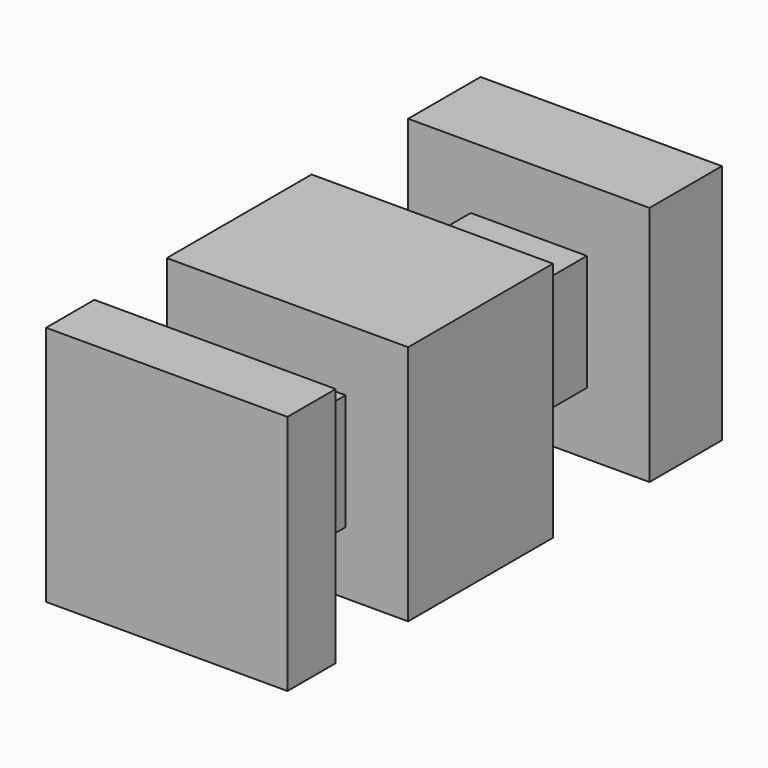
from build123d import *

# Parameters (mm, degrees)
F0_W      = 8
F0_H      = 6
F1_DEPTH  = 8
F2_W      = 3.85
F2_H      = 3.85
F3_DEPTH  = 3
F4_W      = 8
F4_H      = 8
F4_W_2    = 3.85
F4_H_2    = 3.85
F5_DEPTH  = 2
F7_W      = 3.85
F7_H      = 3.85
F8_DEPTH  = 3
F9_W      = 8
F9_H      = 8
F9_W_2    = 3.85
F9_H_2    = 3.85
F10_DEPTH = 2.35
F11_DEPTH = 0.35
F12_DEPTH = 1
F13_DEPTH = 0.65
F14_DEPTH = 1


with BuildPart() as f1:
    # F0 (on Top) → F1 (new body)
    with BuildSketch(Plane.XY):
        Rectangle(F0_W, F0_H)
    extrude(amount=F1_DEPTH)

    # F2 (on face) → F3 (join)
    with BuildSketch(Plane.XZ.offset(3)):
        with Locations((0, 4)):
            Rectangle(F2_W, F2_H)
    extrude(amount=F3_DEPTH)

    # F4 (on face) → F5 (join)
    with BuildSketch(Plane.XZ.offset(6)):
        with Locations((0, 4)):
            Rectangle(F4_W, F4_H)
        with Locations((0, 4)):
            Rectangle(F4_W_2, F4_H_2, mode=Mode.SUBTRACT)
        with Locations((0, 4)):
            Rectangle(F4_W_2, F4_H_2)
    extrude(amount=F5_DEPTH)

    # F7 (on face) → F8 (join)
    with BuildSketch(Plane(origin=(0, 3, 0), x_dir=(-1, 0, 0), z_dir=(0, 1, 0))):
        with Locations((0, 4)):
            Rectangle(F7_W, F7_H)
    extrude(amount=F8_DEPTH)

    # F9 (on face) → F10 (join)
    with BuildSketch(Plane(origin=(0, 6, 0), x_dir=(-1, 0, 0), z_dir=(0, 1, 0))):
        with Locations((0, 4)):
            Rectangle(F9_W, F9_H)
        with Locations((0, 4)):
            Rectangle(F9_W_2, F9_H_2, mode=Mode.SUBTRACT)
        with Locations((0, 4)):
            Rectangle(F9_W_2, F9_H_2)
    extrude(amount=F10_DEPTH)

    # F11 (add): a face of the model
    f11_faces = [f1.faces().sort_by_distance(p)[0] for p in [
        (-3.886862915, 6, 4),
    ]]
    extrude(f11_faces, amount=-F11_DEPTH)

    # F12 (cut): a face of the model
    f12_faces = [f1.faces().sort_by_distance(p)[0] for p in [
        (-3.886862915, 6, 4),
    ]]
    extrude(f12_faces, amount=-F12_DEPTH, mode=Mode.SUBTRACT)

    # F13 (add): a face of the model
    f13_faces = [f1.faces().sort_by_distance(p)[0] for p in [
        (0, 8.35, 4),
    ]]
    extrude(f13_faces, amount=F13_DEPTH)

    # F14 (add): a face of the model
    f14_faces = [f1.faces().sort_by_distance(p)[0] for p in [
        (0, 9, 4),
    ]]
    extrude(f14_faces, amount=F14_DEPTH)


solid = f1.part
